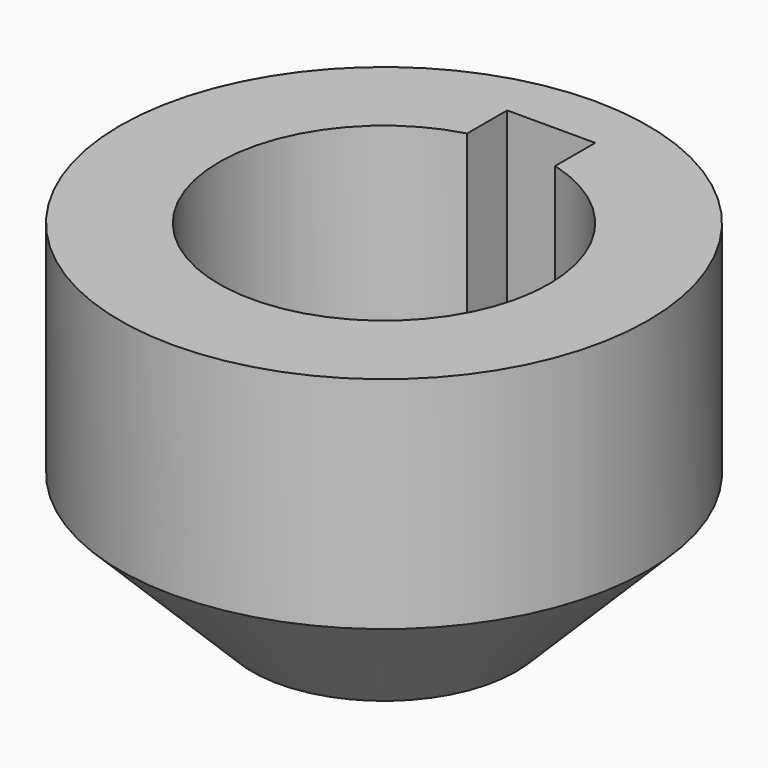
from build123d import *

# Parameters (mm, degrees)
F0_R     = 6
F1_DEPTH = 8
F2_DEPTH = 2
F3_SIZE  = 3


with BuildPart() as f1:
    # F0 (on Top) → F1 (new body)
    with BuildSketch(Plane.XY):
        Circle(F0_R)
        with BuildLine():
            ThreePointArc((1, 3.614208), (2.984334, 2.270738), (3.75, 0))
            ThreePointArc((3.75, 0), (-2.270738, -2.984334), (-1, 3.614208))
            Line((-1, 3.614208), (-1, 4.75))
            Line((-1, 4.75), (1, 4.75))
            Line((1, 4.75), (1, 3.614208))
        make_face(mode=Mode.SUBTRACT)
    extrude(amount=F1_DEPTH)

    # F0 (on Top) → F2 (join)
    with BuildSketch(Plane.XY):
        with BuildLine():
            ThreePointArc((-1, 3.614208), (-2.270738, -2.984334), (3.75, 0))
            ThreePointArc((3.75, 0), (2.984334, 2.270738), (1, 3.614208))
            Line((1, 3.614208), (1, 2.75))
            Line((1, 2.75), (-1, 2.75))
            Line((-1, 2.75), (-1, 3.614208))
        make_face()
        with BuildLine():
            Line((1, 2.75), (1, 3.614208))
            ThreePointArc((1, 3.614208), (0, 3.75), (-1, 3.614208))
            Line((-1, 3.614208), (-1, 2.75))
            Line((-1, 2.75), (1, 2.75))
        make_face()
        with BuildLine():
            ThreePointArc((-1, 3.614208), (0, 3.75), (1, 3.614208))
            Line((1, 3.614208), (1, 4.75))
            Line((1, 4.75), (-1, 4.75))
            Line((-1, 4.75), (-1, 3.614208))
        make_face()
    extrude(amount=F2_DEPTH)

    # F3
    f3_edges = [f1.edges().sort_by_distance(p)[0] for p in [
        (-6, 0, 0),
    ]]
    chamfer(f3_edges, length=F3_SIZE)


solid = f1.part
